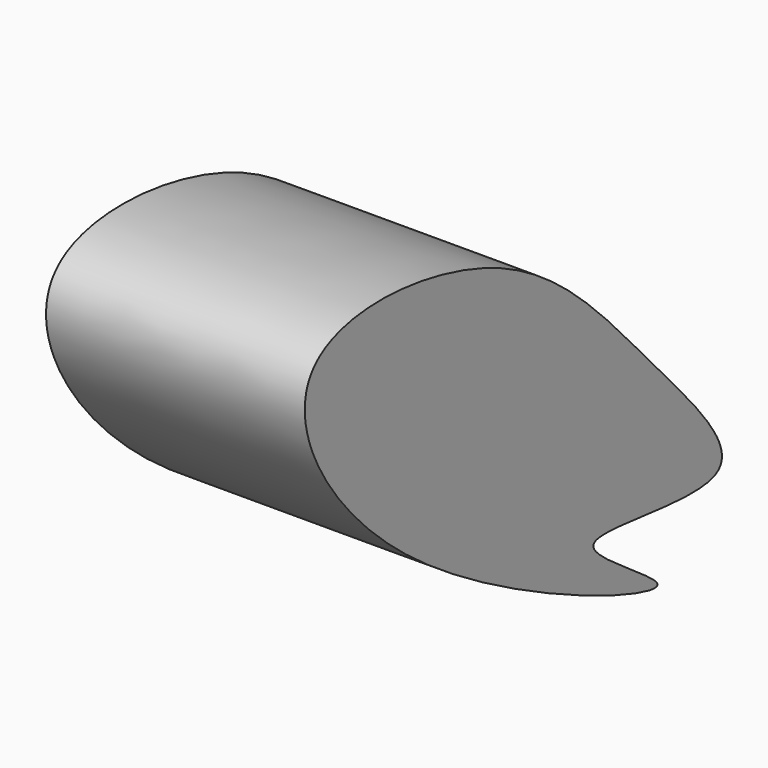
from build123d import *

# Parameters (mm, degrees)
F2_DEPTH = 82.6027486473


with BuildPart() as f2:
    # F0 (on Right) → F2 (new body)
    with BuildSketch(Plane.YZ):
        with BuildLine():
            add(Edge.make_bspline(
                [(0, 0), (1.3000101172, 4.5881213579), (76.0794767785, -14.008769884), (16.3964484435, 47.889727971), (-28.7519730837, 102.1305127616), (-138.5821301493, 110.1433943439), (-86.4340987956, 15.9754202143), (64.9546456439, -40.7829140406), (-1.0654403571, -3.7602550884), (0, 0)],
                knots=[0, 0, 0, 0, 0.1234827808, 0.2441205476, 0.4083789142, 0.5568060357, 0.7153005945, 0.898798066, 1, 1, 1, 1], degree=3))
        make_face()
    extrude(amount=F2_DEPTH)


solid = f2.part
